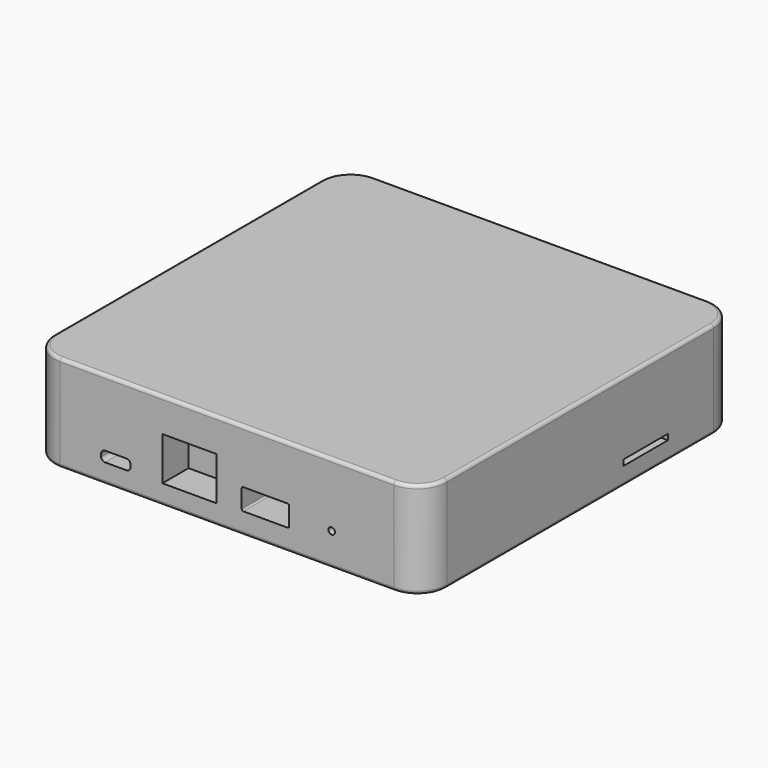
from build123d import *

# Parameters (mm, degrees)
CYLINDER012_R     = 4.5
CYLINDER012_DEPTH = 10
CYLINDER011_R     = 5.5
CYLINDER011_DEPTH = 10
CYLINDER014_R     = 4.5
CYLINDER014_DEPTH = 10
CYLINDER013_R     = 5.5
CYLINDER013_DEPTH = 10
CYLINDER016_R     = 4.5
CYLINDER016_DEPTH = 10
CYLINDER015_R     = 5.5
CYLINDER015_DEPTH = 10
CYLINDER018_R     = 4.5
CYLINDER018_DEPTH = 10
CYLINDER017_R     = 5.5
CYLINDER017_DEPTH = 10
BOX023_W          = 10
BOX023_H          = 17
BOX023_DEPTH      = 1.75
CYLINDER010_R     = 1
CYLINDER010_DEPTH = 10
BOX022_W          = 14.5
BOX022_H          = 10
BOX022_DEPTH      = 6.5
FILLET009_R       = 0.5
BOX021_W          = 16.5
BOX021_H          = 10
BOX021_DEPTH      = 13.25
BOX020_W          = 9
BOX020_H          = 10
BOX020_DEPTH      = 3.17
FILLET008_R       = 1.2
BOX019_W          = 120
BOX019_H          = 120
BOX019_DEPTH      = 29.5
FILLET010_R       = 9
FILLET011_R       = 1


with BuildPart() as cylinder012:
    # Cylinder012 → Cylinder012 (new body)
    with BuildSketch(Plane(origin=(14.5, 14.5, -2.5), x_dir=(1, 0, 0), z_dir=(0, 0, 1))):
        Circle(CYLINDER012_R)
    extrude(amount=CYLINDER012_DEPTH)


with BuildPart() as base_pad001:
    # Cylinder011 → Cylinder011 (new body)
    with BuildSketch(Plane(origin=(14.5, 14.5, -2), x_dir=(1, 0, 0), z_dir=(0, 0, 1))):
        Circle(CYLINDER011_R)
    extrude(amount=CYLINDER011_DEPTH)

    # Fusion008: union Cylinder012
    add(cylinder012.part)


with BuildPart() as cylinder014:
    # Cylinder014 → Cylinder014 (new body)
    with BuildSketch(Plane(origin=(14.5, 14.5, -2.5), x_dir=(1, 0, 0), z_dir=(0, 0, 1))):
        Circle(CYLINDER014_R)
    extrude(amount=CYLINDER014_DEPTH)


with BuildPart() as base_pad002:
    # Cylinder013 → Cylinder013 (new body)
    with BuildSketch(Plane(origin=(14.5, 14.5, -2), x_dir=(1, 0, 0), z_dir=(0, 0, 1))):
        Circle(CYLINDER013_R)
    extrude(amount=CYLINDER013_DEPTH)

    # Fusion009: union Cylinder014
    add(cylinder014.part)


with BuildPart() as base_pad002_1:
    # Fusion009 placement: moved
    add(base_pad002.part.moved(Location((0, 89.5, 0))))


with BuildPart() as cylinder016:
    # Cylinder016 → Cylinder016 (new body)
    with BuildSketch(Plane(origin=(14.5, 14.5, -2.5), x_dir=(1, 0, 0), z_dir=(0, 0, 1))):
        Circle(CYLINDER016_R)
    extrude(amount=CYLINDER016_DEPTH)


with BuildPart() as base_pad003:
    # Cylinder015 → Cylinder015 (new body)
    with BuildSketch(Plane(origin=(14.5, 14.5, -2), x_dir=(1, 0, 0), z_dir=(0, 0, 1))):
        Circle(CYLINDER015_R)
    extrude(amount=CYLINDER015_DEPTH)

    # Fusion002: union Cylinder016
    add(cylinder016.part)


with BuildPart() as base_pad003_1:
    # Fusion002 placement: moved
    add(base_pad003.part.moved(Location((89.5, 0, 0))))


with BuildPart() as cylinder018:
    # Cylinder018 → Cylinder018 (new body)
    with BuildSketch(Plane(origin=(14.5, 14.5, -2.5), x_dir=(1, 0, 0), z_dir=(0, 0, 1))):
        Circle(CYLINDER018_R)
    extrude(amount=CYLINDER018_DEPTH)


with BuildPart() as base_pad004:
    # Cylinder017 → Cylinder017 (new body)
    with BuildSketch(Plane(origin=(14.5, 14.5, -2), x_dir=(1, 0, 0), z_dir=(0, 0, 1))):
        Circle(CYLINDER017_R)
    extrude(amount=CYLINDER017_DEPTH)

    # Fusion010: union Cylinder018
    add(cylinder018.part)


with BuildPart() as base_pad004_1:
    # Fusion010 placement: moved
    add(base_pad004.part.moved(Location((89.5, 89.5, 0))))


with BuildPart() as cube018:
    # Box023 → Box023 (new body)
    with BuildSketch(Plane(origin=(110, 76.5, 5.5), x_dir=(1, 0, 0), z_dir=(0, 0, 1))):
        with Locations((5, 8.5)):
            Rectangle(BOX023_W, BOX023_H)
    extrude(amount=BOX023_DEPTH)


with BuildPart() as cylinder010:
    # Cylinder010 → Cylinder010 (new body)
    with BuildSketch(Plane(origin=(92, 10, 10), x_dir=(1, 0, 0), z_dir=(0, -1, 0))):
        Circle(CYLINDER010_R)
    extrude(amount=CYLINDER010_DEPTH)


with BuildPart() as usb_hole:
    # Box022 → Box022 (new body)
    with BuildSketch(Plane.XY):
        with Locations((7.25, 5)):
            Rectangle(BOX022_W, BOX022_H)
    extrude(amount=BOX022_DEPTH)

    # Fillet009
    fillet009_edges = [usb_hole.edges().sort_by_distance(p)[0] for p in [
        (0, 5, 6.5),
        (0, 5, 0),
        (14.5, 5, 6.5),
        (14.5, 5, 0),
    ]]
    fillet(fillet009_edges, radius=FILLET009_R)


with BuildPart() as usb_hole_1:
    # Fillet009 placement: moved
    add(usb_hole.part.moved(Location((64.5, 0, 6.5))))


with BuildPart() as cube016:
    # Box021 → Box021 (new body)
    with BuildSketch(Plane(origin=(40.25, 0, 6), x_dir=(1, 0, 0), z_dir=(0, 0, 1))):
        with Locations((8.25, 5)):
            Rectangle(BOX021_W, BOX021_H)
    extrude(amount=BOX021_DEPTH)


with BuildPart() as fillet008:
    # Box020 → Box020 (new body)
    with BuildSketch(Plane(origin=(21.5, -6, 5.92), x_dir=(1, 0, 0), z_dir=(0, 0, 1))):
        with Locations((4.5, 5)):
            Rectangle(BOX020_W, BOX020_H)
    extrude(amount=BOX020_DEPTH)

    # Fillet008
    fillet008_edges = [fillet008.edges().sort_by_distance(p)[0] for p in [
        (21.5, -1, 9.09),
        (21.5, -1, 5.92),
        (30.5, -1, 9.09),
        (30.5, -1, 5.92),
    ]]
    fillet(fillet008_edges, radius=FILLET008_R)


with BuildPart() as fillet008_1:
    # Fillet008 placement: moved
    add(fillet008.part.moved(Location((0, 6, 0))))


with BuildPart() as gateway_box:
    # Box019 → Box019 (new body)
    with BuildSketch(Plane.XY):
        with Locations((60, 60)):
            Rectangle(BOX019_W, BOX019_H)
    extrude(amount=BOX019_DEPTH)

    # Cut012: cut Fillet008
    add(fillet008_1.part, mode=Mode.SUBTRACT)

    # Cut013: cut Cube016
    add(cube016.part, mode=Mode.SUBTRACT)

    # Cut014: cut USB_Hole
    add(usb_hole_1.part, mode=Mode.SUBTRACT)

    # Cut015: cut Cylinder010
    add(cylinder010.part, mode=Mode.SUBTRACT)

    # Cut016: cut Cube018
    add(cube018.part, mode=Mode.SUBTRACT)

    # Fillet010
    fillet010_edges = [gateway_box.edges().sort_by_distance(p)[0] for p in [
        (0, 0, 14.75),
        (0, 120, 14.75),
        (120, 0, 14.75),
        (120, 120, 14.75),
    ]]
    fillet(fillet010_edges, radius=FILLET010_R)

    # Fusion004: union base_pad001, base_pad002, base_pad003, base_pad004
    add(base_pad001.part)
    add(base_pad002_1.part)
    add(base_pad003_1.part)
    add(base_pad004_1.part)

    # Fillet011
    fillet011_edges = [gateway_box.edges().sort_by_distance(p)[0] for p in [
        (0, 60, 29.5),
        (0, 111, 14.75),
        (2.636039, 2.636039, 29.5),
        (2.636039, 117.363961, 29.5),
        (60, 0, 29.5),
        (60, 120, 29.5),
        (117.363961, 2.636039, 29.5),
        (117.363961, 117.363961, 29.5),
        (120, 60, 29.5),
        (2.636039, 2.636039, 0),
        (2.636039, 117.363961, 0),
        (9, 120, 14.75),
        (60, 0, 0),
        (60, 120, 0),
        (117.363961, 2.636039, 0),
        (117.363961, 117.363961, 0),
    ]]
    fillet(fillet011_edges, radius=FILLET011_R)


solid = gateway_box.part
